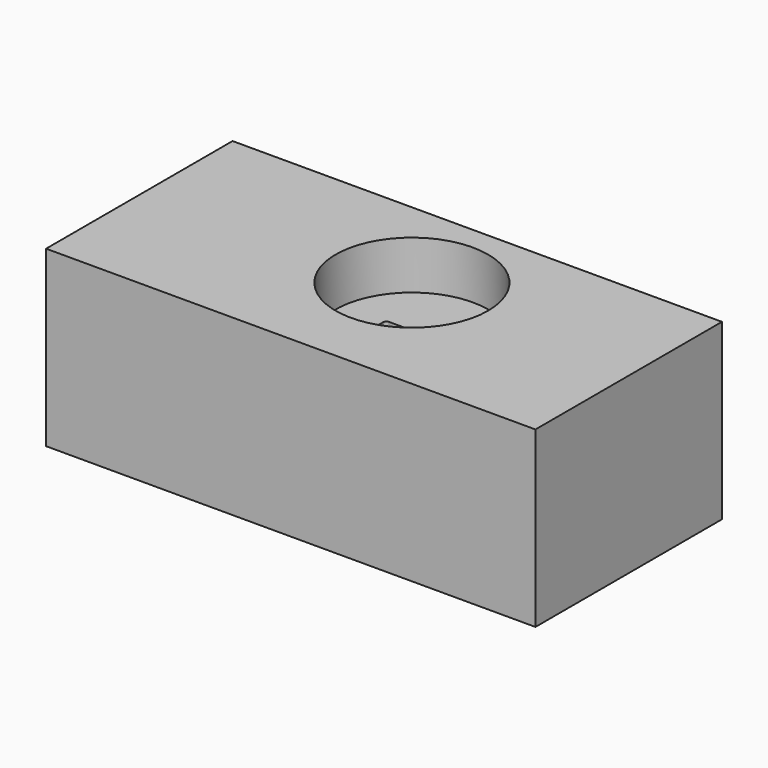
from build123d import *

# Parameters (mm, degrees)
F0_W     = 147.747025
F0_H     = 70.374168
F1_DEPTH = 52.5
F2_R     = 23.006046
F3_DEPTH = 14.6
F5_DEPTH = 25


with BuildPart() as f1:
    # F0 (on Top) → F1 (new body)
    with BuildSketch(Plane.XY):
        with Locations((8.377738, -8.017082)):
            Rectangle(F0_W, F0_H)
    extrude(amount=F1_DEPTH)

    # F2 (on face) → F3 (cut)
    with BuildSketch(Plane.XY.offset(52.5)):
        with Locations((12.676676, -2.870056)):
            Circle(F2_R)
    extrude(amount=-F3_DEPTH, mode=Mode.SUBTRACT)

    # F4 (on face) → F5 (cut)
    with BuildSketch(Plane.XY.offset(37.9)):
        with BuildLine():
            Line((24.04391, 0), (3.486699, 0))
            ThreePointArc((3.486699, 0), (2.779592, -0.292893), (2.486699, -1))
            Line((2.486699, -1), (2.486699, -13.646441))
            ThreePointArc((2.486699, -13.646441), (2.779592, -14.353548), (3.486699, -14.646441))
            Line((3.486699, -14.646441), (24.04391, -14.646441))
            ThreePointArc((24.04391, -14.646441), (24.751016, -14.353548), (25.04391, -13.646441))
            Line((25.04391, -13.646441), (25.04391, -1))
            ThreePointArc((25.04391, -1), (24.751016, -0.292893), (24.04391, 0))
        make_face()
    extrude(amount=-F5_DEPTH, mode=Mode.SUBTRACT)


solid = f1.part
